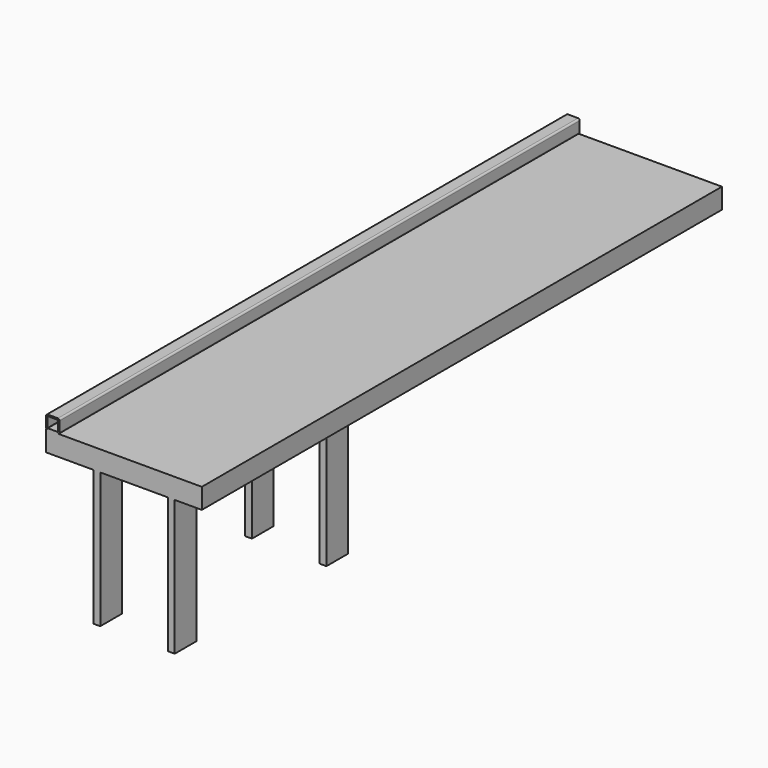
from build123d import *

# Parameters (mm, degrees)
F0_W     = 292.1
F0_H     = 38.1
F1_DEPTH = 1219.2
F3_DEPTH = 1219.2
F4_W     = 12.7
F4_H     = 50.8
F5_DEPTH = 254


with BuildPart() as f1:
    # F0 (on Front) → F1 (new body)
    with BuildSketch(Plane.XZ):
        with Locations((146.05, 19.05)):
            Rectangle(F0_W, F0_H)
    extrude(amount=F1_DEPTH)

    # F2 (on face) → F3 (join)
    with BuildSketch(Plane.XZ.offset(1219.2)):
        with BuildLine():
            ThreePointArc((0, 41.275), (0.929936, 39.029936), (3.175, 38.1))
            Line((3.175, 38.1), (22.225, 38.1))
            ThreePointArc((22.225, 38.1), (24.470064, 39.029936), (25.4, 41.275))
            Line((25.4, 41.275), (25.4, 60.325))
            ThreePointArc((25.4, 60.325), (24.470064, 62.570064), (22.225, 63.5))
            Line((22.225, 63.5), (3.175, 63.5))
            ThreePointArc((3.175, 63.5), (0.929936, 62.570064), (0, 60.325))
            Line((0, 60.325), (0, 41.275))
        make_face()
        with BuildLine():
            ThreePointArc((22.6568, 41.275), (22.530329, 40.969671), (22.225, 40.8432))
            Line((22.225, 40.8432), (3.175, 40.8432))
            ThreePointArc((3.175, 40.8432), (2.869671, 40.969671), (2.7432, 41.275))
            Line((2.7432, 41.275), (2.7432, 60.325))
            ThreePointArc((2.7432, 60.325), (2.869671, 60.630329), (3.175, 60.7568))
            Line((3.175, 60.7568), (22.225, 60.7568))
            ThreePointArc((22.225, 60.7568), (22.530329, 60.630329), (22.6568, 60.325))
            Line((22.6568, 60.325), (22.6568, 41.275))
        make_face(mode=Mode.SUBTRACT)
    extrude(amount=-F3_DEPTH)

    # F4 (on face) → F5 (join)
    with BuildSketch(Plane(origin=(0, 0, 0), x_dir=(1, 0, 0), z_dir=(0, 0, -1))):
        with Locations((95.25, 1193.8)):
            Rectangle(F4_W, F4_H)
        with Locations((234.95, 1193.8)):
            Rectangle(F4_W, F4_H)
        with Locations((95.25, 838.2)):
            Rectangle(F4_W, F4_H)
        with Locations((234.95, 838.2)):
            Rectangle(F4_W, F4_H)
    extrude(amount=F5_DEPTH)


solid = f1.part
